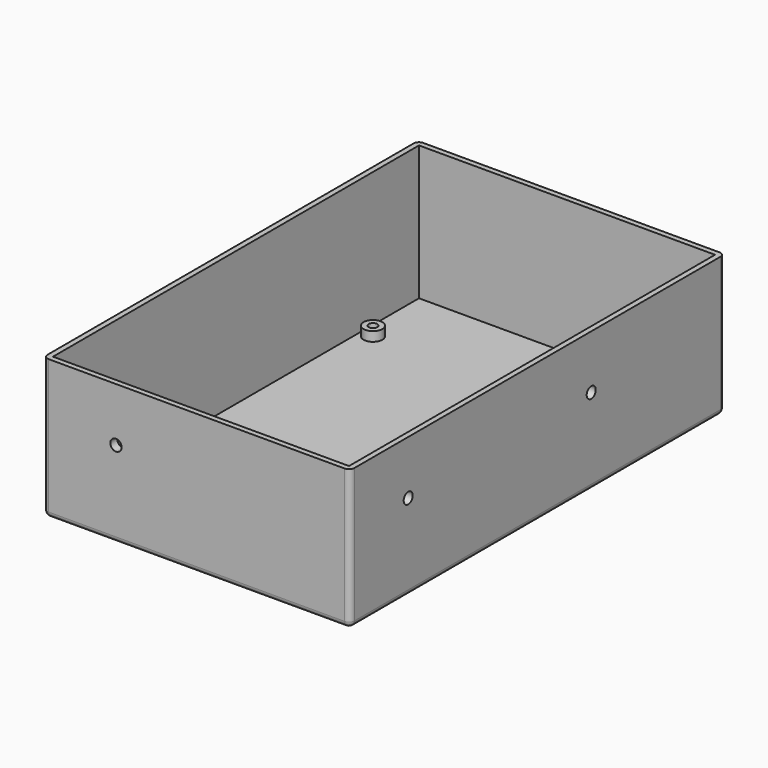
from build123d import *

# Parameters (mm, degrees)
CYLINDER002_R            = 2.1
CYLINDER002_DEPTH        = 10
CYLINDER002_PITCH_ANGLE  = 90
CYLINDER001_R            = 1.6
CYLINDER001_DEPTH        = 7
ARRAY001_X_COUNT         = 2
ARRAY001_X_PITCH         = 76
ARRAY001_Y_COUNT         = 2
ARRAY001_Y_PITCH         = 135
CLONE003_ROLL_ANGLE      = 90
CLONE003_PLACEMENT_ANGLE = -90
CYLINDER_R               = 3.5
CYLINDER_DEPTH           = 3.5
ARRAY_X_COUNT            = 2
ARRAY_X_PITCH            = 76
ARRAY_Y_COUNT            = 2
ARRAY_Y_PITCH            = 135
CONE_PITCH_ANGLE         = -90
CLONE002_ROLL_ANGLE      = -90
CLONE002_PLACEMENT_ANGLE = -90
BOX_W                    = 110
BOX_H                    = 170
BOX_DEPTH                = 50
THICKNESS_T              = 2


with BuildPart() as cylinder002:
    # Cylinder002 → Cylinder002 (new body)
    with BuildSketch(Plane.XY):
        Circle(CYLINDER002_R)
    extrude(amount=CYLINDER002_DEPTH)


with BuildPart() as cylinder002_1:
    # Cylinder002 pitch: moved
    add(cylinder002.part.rotate(Axis((0, 0, 0), (0, 1, 0)), CYLINDER002_PITCH_ANGLE))


with BuildPart() as cylinder002_2:
    # Cylinder002 placement: moved
    add(cylinder002_1.part.moved(Location((108, 25, 30))))


with BuildPart() as clone_of_cylinder002:
    # Clone001 base: copy of Cylinder002
    add(cylinder002_2.part)


with BuildPart() as clone_of_cylinder002_1:
    # Clone001 placement: moved
    add(clone_of_cylinder002.part.moved(Location((0, 85, 0))))


with BuildPart() as mount_holes:
    # Cylinder001 → Cylinder001 (new body)
    with BuildSketch(Plane.XY.offset(-3)):
        Circle(CYLINDER001_R)
    extrude(amount=CYLINDER001_DEPTH)

    # Array001 X: mount_holes ×2


with BuildPart() as mount_holes_1:
    add(mount_holes.part)
    with Locations(*[(i * ARRAY001_X_PITCH, 0, 0) for i in range(1, ARRAY001_X_COUNT)]):
        add(mount_holes.part)

    # Array001 Y: mount_holes ×2


with BuildPart() as mount_holes_2:
    add(mount_holes_1.part)
    with Locations(*[(0, i * ARRAY001_Y_PITCH, 0) for i in range(1, ARRAY001_Y_COUNT)]):
        add(mount_holes_1.part)


with BuildPart() as mount_holes_3:
    # Array001 placement: moved
    add(mount_holes_2.part.moved(Location((4.5, 8, 0))))


with BuildPart() as fusion001:
    # Clone003 base: copy of Cylinder002
    add(cylinder002_2.part)


with BuildPart() as fusion001_1:
    # Clone003 roll: moved
    add(fusion001.part.rotate(Axis((0, 0, 0), (1, 0, 0)), CLONE003_ROLL_ANGLE))


with BuildPart() as fusion001_2:
    # Clone003 placement: moved
    add(fusion001_1.part.moved(Location((55, 113, 5))).rotate(Axis((55, 113, 5), (0, 0, 1)), CLONE003_PLACEMENT_ANGLE))

    # Fusion001: union Clone of Cylinder002, Cylinder002, mount_holes
    add(clone_of_cylinder002_1.part)
    add(cylinder002_2.part)
    add(mount_holes_3.part)


with BuildPart() as mount_points:
    # Cylinder → Cylinder (new body)
    with BuildSketch(Plane.XY):
        Circle(CYLINDER_R)
    extrude(amount=CYLINDER_DEPTH)

    # Array X: mount_points ×2


with BuildPart() as mount_points_1:
    add(mount_points.part)
    with Locations(*[(i * ARRAY_X_PITCH, 0, 0) for i in range(1, ARRAY_X_COUNT)]):
        add(mount_points.part)

    # Array Y: mount_points ×2


with BuildPart() as mount_points_2:
    add(mount_points_1.part)
    with Locations(*[(0, i * ARRAY_Y_PITCH, 0) for i in range(1, ARRAY_Y_COUNT)]):
        add(mount_points_1.part)


with BuildPart() as mount_points_3:
    # Array placement: moved
    add(mount_points_2.part.moved(Location((4.5, 8, 0))))


with BuildPart() as cone:
    # Cone → Cone (revolve)
    with BuildSketch(Plane.XZ):
        Polygon((0, 0), (8, 0), (4, 1.2), (0, 1.2), align=None)
    revolve(axis=Axis((0, 0, 0), (0, 0, 1)))


with BuildPart() as cone_1:
    # Cone pitch: moved
    add(cone.part.rotate(Axis((0, 0, 0), (0, 1, 0)), CONE_PITCH_ANGLE))


with BuildPart() as cone_2:
    # Cone placement: moved
    add(cone_1.part.moved(Location((110, 25, 30))))


with BuildPart() as clone_of_cone:
    # Clone base: copy of Cone
    add(cone_2.part)


with BuildPart() as clone_of_cone_1:
    # Clone placement: moved
    add(clone_of_cone.part.moved(Location((0, 85, 0))))


with BuildPart() as clone_of_cone001:
    # Clone002 base: copy of Cone
    add(cone_2.part)


with BuildPart() as clone_of_cone001_1:
    # Clone002 roll: moved
    add(clone_of_cone001.part.rotate(Axis((0, 0, 0), (1, 0, 0)), CLONE002_ROLL_ANGLE))


with BuildPart() as clone_of_cone001_2:
    # Clone002 placement: moved
    add(clone_of_cone001_1.part.moved(Location((-5, 110, 55))).rotate(Axis((-5, 110, 55), (0, 0, 1)), CLONE002_PLACEMENT_ANGLE))


with BuildPart() as case_with_mount_holes:
    # Box → Box (new body)
    with BuildSketch(Plane.XY):
        with Locations((55, 85)):
            Rectangle(BOX_W, BOX_H)
    extrude(amount=BOX_DEPTH)

    # Thickness
    thickness_openings = [case_with_mount_holes.faces().sort_by_distance(p)[0] for p in [
        (55, 85, 50),
    ]]
    offset(amount=THICKNESS_T, openings=thickness_openings)

    # Fusion: union mount_points, Clone of Cone, Cone, Clone of Cone001
    add(mount_points_3.part)
    add(clone_of_cone_1.part)
    add(cone_2.part)
    add(clone_of_cone001_2.part)

    # Cut: cut Fusion001
    add(fusion001_2.part, mode=Mode.SUBTRACT)


solid = case_with_mount_holes.part
